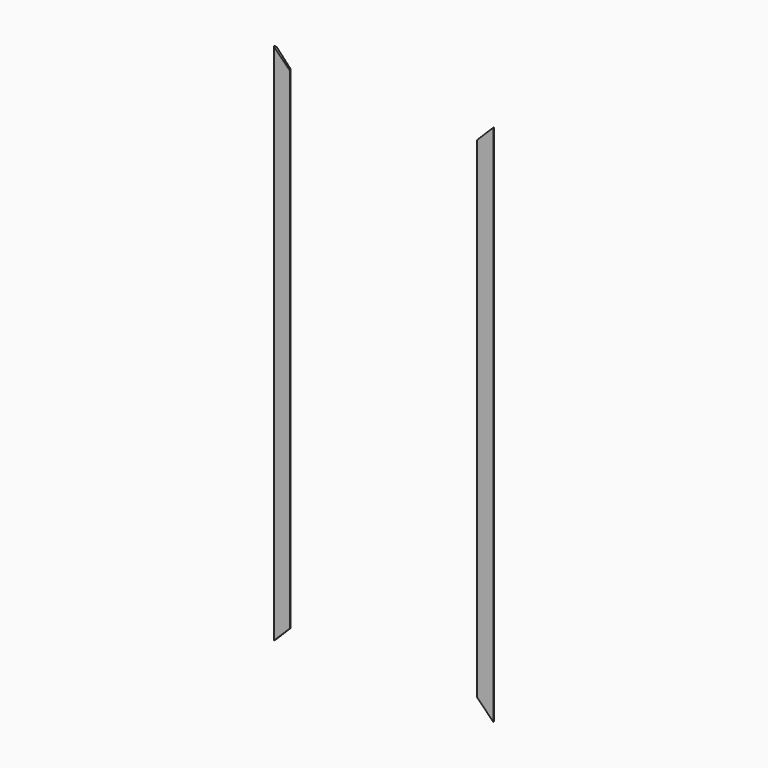
from build123d import *

# Parameters (mm, degrees)
EXTRUDE039436_DEPTH = 500
EXTRUDE039434_DEPTH = 500


with BuildPart() as extrude039436_internal_inferior:
    # Sketch225 (on Sketch) → Extrude039436 (new body, symmetric)
    with BuildSketch(Plane.XZ):
        Polygon((-200, 200), (200, 200), (600, -200), (-600, -200), align=None)
    extrude(amount=EXTRUDE039436_DEPTH, both=True)


with BuildPart() as compound051:
    # Sketch223 (on Sketch) → Extrude039434 (new body, symmetric)
    with BuildSketch(Plane.XZ):
        Polygon((-600, 2300), (600, 2300), (200, 1900), (-200, 1900), align=None)
    extrude(amount=EXTRUDE039434_DEPTH, both=True)

    # Compound051: union Extrude039436_internal_inferior_
    add(extrude039436_internal_inferior.part)


with BuildPart() as trim_window_internal_vertical:
    # Sweep012: sweep along a path in Sketch195
    with BuildLine(Plane.XZ) as sweep012_path:
        Line((-400, 2100), (-400, 0))
        Line((-400, 0), (400, 0))
        Line((400, 0), (400, 2100))
        Line((400, 2100), (-400, 2100))
    # Clone2D028 (on Sketch) → Sweep012 (sweep)
    with BuildSketch(Plane.ZY):
        with BuildLine():
            Line((-61.571224, 10), (-5.678418, 7))
            ThreePointArc((-5.678418, 7), (-1.645147, 5.136003), (0, 1.008624))
            Line((0, 1.008624), (0, 0))
            Line((0, 0), (-70, 0))
            Line((-70, 0), (-70, 2.011499))
            ThreePointArc((-70, 2.011499), (-67.503171, 7.81797), (-61.571224, 10))
        make_face()
    sweep(path=sweep012_path.line, is_frenet=True, transition=Transition.RIGHT)

    # Cut074: cut Compound051_
    add(compound051.part, mode=Mode.SUBTRACT)


solid = trim_window_internal_vertical.part
